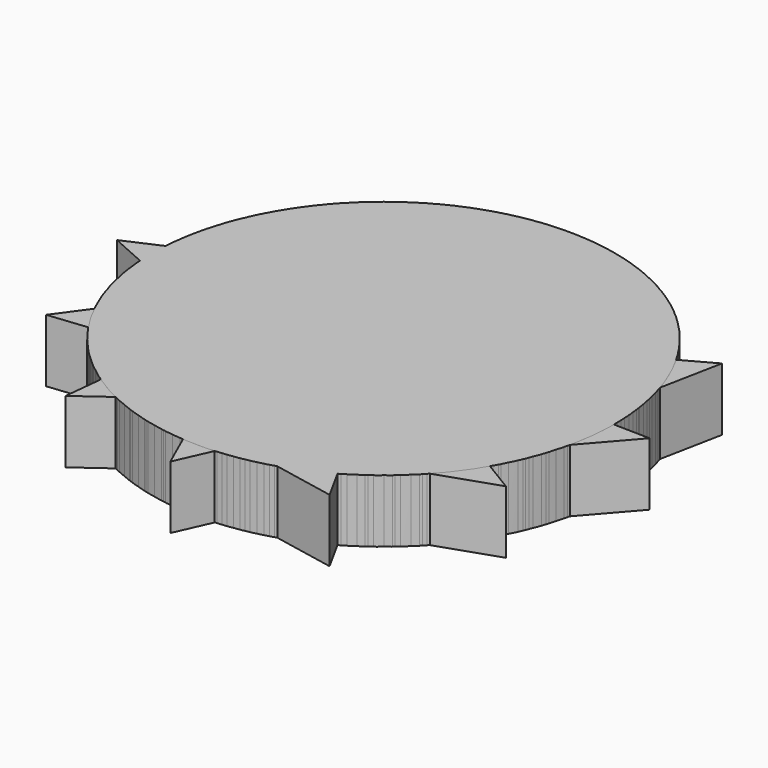
from build123d import *

# Parameters (mm, degrees)
F0_R     = 93.406813
F1_DEPTH = 25.4
F3_DEPTH = 25.4
F4_DEPTH = 25.4
F5_COUNT = 4
F5_ANGLE = 90


with BuildPart() as f1:
    # F0 (on Top) → F1 (new body)
    with BuildSketch(Plane.XY):
        Circle(F0_R)
    extrude(amount=F1_DEPTH)

    # F2 (on face) → F3 (join)
    with BuildSketch(Plane.XY.offset(25.4)):
        with BuildLine():
            ThreePointArc((6.417221, -93.186114), (0, -93.406813), (-6.417221, -93.186114))
            Line((-6.417221, -93.186114), (0, -107.605688))
            Line((0, -107.605688), (6.417221, -93.186114))
        make_face()
    extrude(amount=-F3_DEPTH)

    # F2 (on face) → F4 (join)
    with BuildSketch(Plane.XY.offset(25.4)):
        with BuildLine():
            Line((93.941808, 53.368866), (81.117979, 46.310971))
            ThreePointArc((81.117979, 46.310971), (85.538486, 37.523326), (89.01032, 28.319525))
            Line((89.01032, 28.319525), (93.941808, 53.368866))
        make_face()
    extrude(amount=-F4_DEPTH)


with BuildPart() as f5_1:
    # F5: instance of F1
    add(f1.part.rotate(Axis((0, 0, 0), (0, 0, -1)), 1 * F5_ANGLE / (F5_COUNT - 1)))


with BuildPart() as f5_2:
    # F5: instance of F1
    add(f1.part.rotate(Axis((0, 0, 0), (0, 0, -1)), 2 * F5_ANGLE / (F5_COUNT - 1)))


with BuildPart() as f5_3:
    # F5: instance of F1
    add(f1.part.rotate(Axis((0, 0, 0), (0, 0, -1)), 3 * F5_ANGLE / (F5_COUNT - 1)))


solid = Compound([f1.part, f5_1.part, f5_2.part, f5_3.part])
